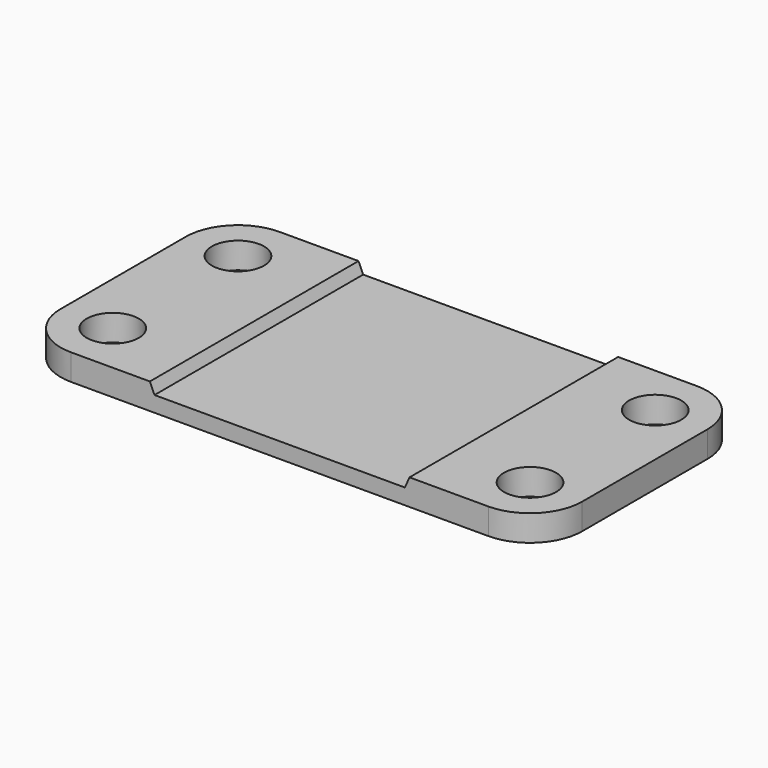
from build123d import *

# Parameters (mm, degrees)
SKETCH_R          = 5
PAD_DEPTH         = 5
POCKET_DEPTH      = 25.001
POCKET_DEPTH_BACK = 25.001


with BuildPart() as part:
    # Sketch → Pad (new body)
    with BuildSketch(Plane.XY):
        with BuildLine():
            Line((-50, 15), (-50, -15))
            ThreePointArc((-50, -15), (-47.071068, -22.071068), (-40, -25))
            Line((-40, -25), (0, -25))
            Line((0, -25), (0, 25))
            Line((0, 25), (-40, 25))
            ThreePointArc((-40, 25), (-47.071068, 22.071068), (-50, 15))
        make_face()
        with Locations((-40, 15)):
            Circle(SKETCH_R, mode=Mode.SUBTRACT)
        with Locations((-40, -15)):
            Circle(SKETCH_R, mode=Mode.SUBTRACT)
    extrude(amount=PAD_DEPTH)

    # Sketch001 → Pocket (cut, two sides)
    with BuildSketch(Plane.XZ) as pocket_sk:
        Polygon((0, 3), (-24, 3), (-24.890457, 5), (0, 5), align=None)
    extrude(amount=-POCKET_DEPTH, mode=Mode.SUBTRACT)
    extrude(pocket_sk.sketch, amount=POCKET_DEPTH_BACK, mode=Mode.SUBTRACT)

    # Mirrored: part across YZ


with BuildPart() as part_1:
    add(part.part)
    add(part.part.mirror(Plane.YZ))


solid = part_1.part
